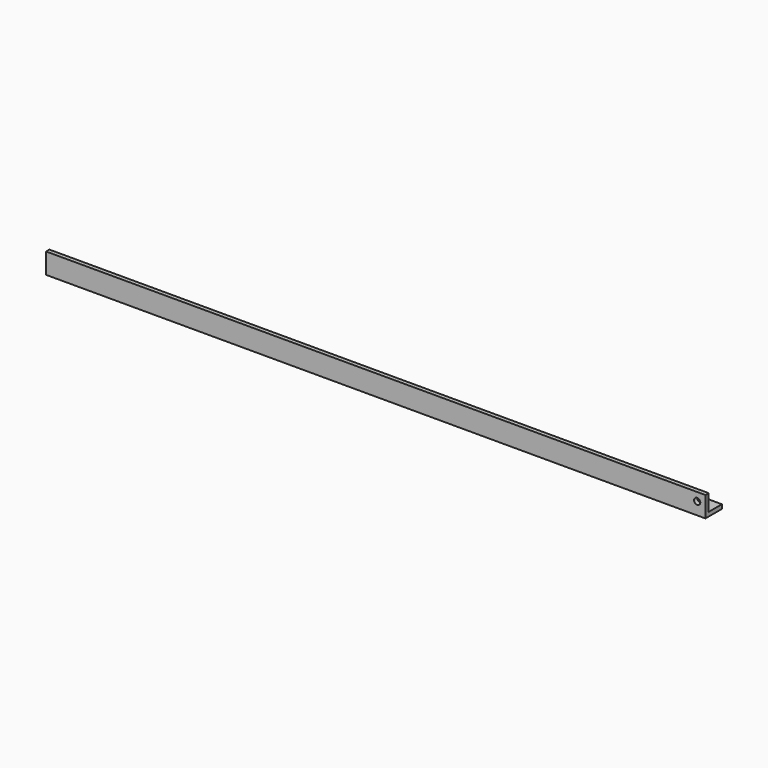
from build123d import *

# Parameters (mm, degrees)
F1_DEPTH = 1016
F2_R     = 4.7625
F3_DEPTH = 31.751


with BuildPart() as f1:
    # F0 (on Right) → F1 (new body)
    with BuildSketch(Plane.YZ):
        Polygon((0, 31.75), (0, 0), (31.75, 0), (31.75, 6.35), (6.35, 6.35), (6.35, 31.75), align=None)
    extrude(amount=F1_DEPTH)

    # F2 (on face) → F3 (cut, through all)
    with BuildSketch(Plane.XZ):
        with Locations((1003.3, 19.05)):
            Circle(F2_R)
    extrude(amount=-F3_DEPTH, mode=Mode.SUBTRACT)


solid = f1.part
